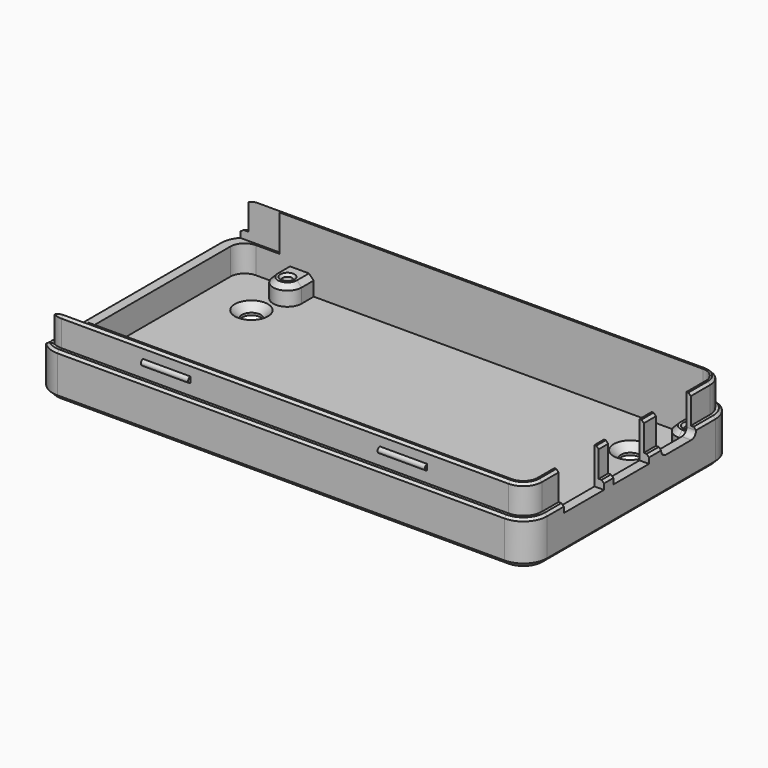
from build123d import *

# Parameters (mm, degrees)
PAD017_DEPTH                  = 15.3
PAD017_MIRRORED033_2_DEPTH    = 15.3
PAD023_DEPTH                  = 2
PAD023_MIRRORED043_2_DEPTH    = 2
SKETCH061_R                   = 1
PAD019_DEPTH                  = 4
POCKET060_DEPTH               = 6
POCKET060_MIRRORED038_2_DEPTH = 6
PAD020_DEPTH                  = 30
POCKET068_DEPTH               = 20
CHAMFER034_SIZE               = 1
CHAMFER026_SIZE               = 1
CHAMFER029_SIZE               = 0.5
CHAMFER028_SIZE               = 0.5
CHAMFER033_SIZE               = 0.5
POCKET063_DEPTH               = 5
SKETCH082_W                   = 9.4
SKETCH082_H                   = 50
POCKET066_DEPTH               = 5
POCKET053_DEPTH               = 10
POCKET065_DEPTH               = 10
POCKET052_DEPTH               = 10
POCKET056_DEPTH               = 10
POCKET057_DEPTH               = 10
POCKET071_DEPTH               = 10
SKETCH072_R                   = 2
POCKET072_DEPTH               = 5
CHAMFER031_SIZE               = 1.5


with BuildPart() as part:
    # Sketch076 → Pad017 (new body)
    with BuildSketch(Plane.XY):
        with BuildLine():
            ThreePointArc((-47.2, 25.2), (-49.32132, 24.32132), (-50.2, 22.2))
            Line((-50.2, 22.2), (-50.2, 0))
            Line((-52.2, 0), (-50.2, 0))
            Line((-52.2, 22.2), (-52.2, 0))
            ThreePointArc((-47.2, 27.2), (-50.735534, 25.735534), (-52.2, 22.2))
            Line((-47.2, 27.2), (0, 27.2))
            Line((0, 27.2), (0, 25.2))
            Line((-47.2, 25.2), (0, 25.2))
        make_face()
    pad017 = extrude(amount=PAD017_DEPTH)

    # Sketch076 Mirrored033 2 → Pad017 Mirrored033 2 (add)
    with BuildSketch(Plane(origin=(0, 0, 0), x_dir=(-1, 0, 0), z_dir=(0, 0, -1))):
        with BuildLine():
            ThreePointArc((-47.2, 25.2), (-49.32132, 24.32132), (-50.2, 22.2))
            Line((-50.2, 22.2), (-50.2, 0))
            Line((-52.2, 0), (-50.2, 0))
            Line((-52.2, 22.2), (-52.2, 0))
            ThreePointArc((-47.2, 27.2), (-50.735534, 25.735534), (-52.2, 22.2))
            Line((-47.2, 27.2), (0, 27.2))
            Line((0, 27.2), (0, 25.2))
            Line((-47.2, 25.2), (0, 25.2))
        make_face()
    pad017_mirrored033_2 = extrude(amount=-PAD017_MIRRORED033_2_DEPTH)

    # Mirrored031: Pad017, Pad017 Mirrored033 2 across Sketch076 H_Axis
    add(pad017.mirror(Plane.ZX))
    add(pad017_mirrored033_2.mirror(Plane.ZX))

    # Sketch074 → Pad023 (join)
    with BuildSketch(Plane.XY):
        with BuildLine():
            ThreePointArc((-47.2, 25.2), (-49.32132, 24.32132), (-50.2, 22.2))
            Line((-50.2, 22.2), (-50.2, 0))
            Line((-50.2, 0), (0, 0))
            Line((0, 0), (0, 25.2))
            Line((-47.2, 25.2), (0, 25.2))
        make_face()
    pad023 = extrude(amount=PAD023_DEPTH)

    # Sketch074 Mirrored043 2 → Pad023 Mirrored043 2 (add)
    with BuildSketch(Plane(origin=(0, 0, 0), x_dir=(-1, 0, 0), z_dir=(0, 0, -1))):
        with BuildLine():
            ThreePointArc((-47.2, 25.2), (-49.32132, 24.32132), (-50.2, 22.2))
            Line((-50.2, 22.2), (-50.2, 0))
            Line((-50.2, 0), (0, 0))
            Line((0, 0), (0, 25.2))
            Line((-47.2, 25.2), (0, 25.2))
        make_face()
    pad023_mirrored043_2 = extrude(amount=-PAD023_MIRRORED043_2_DEPTH)

    # Mirrored037: Pad023, Pad023 Mirrored043 2 across Sketch074 H_Axis
    add(pad023.mirror(Plane.ZX))
    add(pad023_mirrored043_2.mirror(Plane.ZX))

    # Sketch061 (on Face19 of MultiTransform012) → Pad019 (join)
    with BuildSketch(Plane.XY.offset(2)):
        with BuildLine():
            ThreePointArc((50.2, 22.2), (49.32132, 24.32132), (47.2, 25.2))
            Line((47.2, 25.2), (44, 25.2))
            Line((44, 22), (44, 25.2))
            ThreePointArc((44, 22), (44.87868, 19.87868), (47, 19))
            Line((47, 19), (50.2, 19))
            Line((50.2, 22.2), (50.2, 19))
        make_face()
        with Locations((47, 22)):
            Circle(SKETCH061_R, mode=Mode.SUBTRACT)
        with BuildLine():
            ThreePointArc((-41, 22), (-38, 19), (-35, 22))
            Line((-35, 22), (-35, 25.2))
            Line((-41, 25.2), (-35, 25.2))
            Line((-41, 22), (-41, 25.2))
        make_face()
        with Locations((-38, 22)):
            Circle(SKETCH061_R, mode=Mode.SUBTRACT)
    pad019 = extrude(amount=PAD019_DEPTH)

    # Mirrored035: Pad019 across Sketch061 H_Axis
    add(pad019.mirror(Plane(origin=(0, 0, 2), x_dir=(0, 0, 1), z_dir=(0, 1, 0))))

    # Sketch068 (on Face5 of Mirrored035) → Pocket060 (cut)
    with BuildSketch(Plane.XY.offset(15.3)):
        with BuildLine():
            ThreePointArc((-47.2, 27.2), (-50.735534, 25.735534), (-52.2, 22.2))
            Line((-52.2, 0), (-52.2, 22.2))
            Line((-51.1, 0), (-52.2, 0))
            Line((-51.1, 22.2), (-51.1, 0))
            ThreePointArc((-47.2, 26.1), (-49.957716, 24.957716), (-51.1, 22.2))
            Line((0, 26.1), (-47.2, 26.1))
            Line((0, 27.2), (0, 26.1))
            Line((-47.2, 27.2), (0, 27.2))
        make_face()
    pocket060 = extrude(amount=-POCKET060_DEPTH, mode=Mode.SUBTRACT)

    # Sketch068 Mirrored038 2 → Pocket060 Mirrored038 2 (cut)
    with BuildSketch(Plane(origin=(0, 0, 15.3), x_dir=(-1, 0, 0), z_dir=(0, 0, -1))):
        with BuildLine():
            ThreePointArc((-47.2, 27.2), (-50.735534, 25.735534), (-52.2, 22.2))
            Line((-52.2, 0), (-52.2, 22.2))
            Line((-51.1, 0), (-52.2, 0))
            Line((-51.1, 22.2), (-51.1, 0))
            ThreePointArc((-47.2, 26.1), (-49.957716, 24.957716), (-51.1, 22.2))
            Line((0, 26.1), (-47.2, 26.1))
            Line((0, 27.2), (0, 26.1))
            Line((-47.2, 27.2), (0, 27.2))
        make_face()
    pocket060_mirrored038_2 = extrude(amount=POCKET060_MIRRORED038_2_DEPTH, mode=Mode.SUBTRACT)

    # Mirrored042: Pocket060, Pocket060 Mirrored038 2 across Sketch068 H_Axis
    add(pocket060.mirror(Plane(origin=(0, 0, 15.3), x_dir=(0, 0, 1), z_dir=(0, 1, 0))), mode=Mode.SUBTRACT)
    add(pocket060_mirrored038_2.mirror(Plane(origin=(0, 0, 15.3), x_dir=(0, 0, 1), z_dir=(0, 1, 0))), mode=Mode.SUBTRACT)

    # Sketch060 → Pad020 (join, symmetric)
    with BuildSketch(Plane.YZ):
        with BuildLine():
            ThreePointArc((-26.1, 12.9), (-26.7, 12.3), (-26.1, 11.7))
            Line((-26.1, 12.9), (-26.1, 11.7))
        make_face()
    pad020 = extrude(amount=PAD020_DEPTH, both=True)

    # Sketch060 → Pocket068 (cut, symmetric)
    with BuildSketch(Plane.YZ):
        with BuildLine():
            ThreePointArc((-26.1, 12.9), (-26.7, 12.3), (-26.1, 11.7))
            Line((-26.1, 12.9), (-26.1, 11.7))
        make_face()
    pocket068 = extrude(amount=POCKET068_DEPTH, both=True, mode=Mode.SUBTRACT)

    # Mirrored034: Pad020, Pocket068 across Sketch060 V_Axis
    add(pad020.mirror(Plane(origin=(0, 0, 0), x_dir=(1, 0, 0), z_dir=(0, 1, 0))))
    add(pocket068.mirror(Plane(origin=(0, 0, 0), x_dir=(1, 0, 0), z_dir=(0, 1, 0))), mode=Mode.SUBTRACT)

    # Chamfer034
    chamfer034_edges = [part.edges().sort_by_distance(p)[0] for p in [
        (0, -27.2, 0),
    ]]
    chamfer(chamfer034_edges, length=CHAMFER034_SIZE)

    # Chamfer026
    chamfer026_edges = [part.edges().sort_by_distance(p)[0] for p in [
        (-35, 23.6, 6),
        (-35, -23.6, 6),
        (44, -23.6, 6),
        (44, 23.6, 6),
    ]]
    chamfer(chamfer026_edges, length=CHAMFER026_SIZE)

    # Chamfer029
    chamfer029_edges = [part.edges().sort_by_distance(p)[0] for p in [
        (-39, 22, 6),
        (46, 22, 6),
        (-39, -22, 6),
        (46, -22, 6),
    ]]
    chamfer(chamfer029_edges, length=CHAMFER029_SIZE)

    # Chamfer028
    chamfer028_edges = [part.edges().sort_by_distance(p)[0] for p in [
        (0, -26.1, 15.3),
    ]]
    chamfer(chamfer028_edges, length=CHAMFER028_SIZE)

    # Chamfer033
    chamfer033_edges = [part.edges().sort_by_distance(p)[0] for p in [
        (-23.6, -27.2, 9.3),
    ]]
    chamfer(chamfer033_edges, length=CHAMFER033_SIZE)

    # Sketch069 (on DatumPlane) → Pocket063 (cut)
    with BuildSketch(Plane.YZ.offset(52.2)):
        with BuildLine():
            ThreePointArc((7.9, 8.75), (8.266117, 7.866117), (9.15, 7.5))
            Line((9.15, 7.5), (15.85, 7.5))
            ThreePointArc((15.85, 7.5), (16.733883, 7.866117), (17.1, 8.75))
            Line((17.1, 8.75), (17.1, 58.75))
            Line((7.9, 58.75), (17.1, 58.75))
            Line((7.9, 8.75), (7.9, 58.75))
        make_face()
    extrude(amount=-POCKET063_DEPTH, mode=Mode.SUBTRACT)

    # Sketch082 (on DatumPlane) → Pocket066 (cut)
    with BuildSketch(Plane.YZ.offset(52.2)):
        with Locations((0, 32.6)):
            Rectangle(SKETCH082_W, SKETCH082_H)
    extrude(amount=-POCKET066_DEPTH, mode=Mode.SUBTRACT)

    # Sketch062 (on DatumPlane) → Pocket053 (cut)
    with BuildSketch(Plane.YZ.offset(52.2)):
        Polygon((-17.8, 7.6), (-7.2, 7.6), (-7.2, 15.6), (-12.1, 15.6), (-12.1, 18.1), (-14.1, 18.1), (-14.1, 15.6), (-17.8, 15.6), align=None)
    extrude(amount=-POCKET053_DEPTH, mode=Mode.SUBTRACT)

    # Sketch083 (on DatumPlane) → Pocket065 (cut)
    with BuildSketch(Plane(origin=(-52.2, 0, 0), x_dir=(0, -1, 0), z_dir=(-1, 0, 0))):
        Polygon((-25.62, 7.6), (-15.02, 7.6), (-15.02, 15.6), (-19.92, 15.6), (-19.92, 18.1), (-21.92, 18.1), (-21.92, 15.6), (-25.62, 15.6), align=None)
    extrude(amount=-POCKET065_DEPTH, mode=Mode.SUBTRACT)

    # Sketch063 (on DatumPlane) → Pocket052 (cut)
    with BuildSketch(Plane(origin=(-52.2, 0, 0), x_dir=(0, -1, 0), z_dir=(-1, 0, 0))):
        Polygon((-15.46, 7.6), (-4.86, 7.6), (-4.86, 15.6), (-9.76, 15.6), (-9.76, 18.1), (-11.76, 18.1), (-11.76, 15.6), (-15.46, 15.6), align=None)
    extrude(amount=-POCKET052_DEPTH, mode=Mode.SUBTRACT)

    # Sketch059 (on DatumPlane) → Pocket056 (cut)
    with BuildSketch(Plane(origin=(-52.2, 0, 0), x_dir=(0, -1, 0), z_dir=(-1, 0, 0))):
        Polygon((-5.3, 7.6), (5.3, 7.6), (5.3, 15.6), (0, 15.6), (0, 18.1), (-2, 18.1), (-2, 15.6), (-5.3, 15.6), align=None)
    extrude(amount=-POCKET056_DEPTH, mode=Mode.SUBTRACT)

    # Sketch071 (on DatumPlane) → Pocket057 (cut)
    with BuildSketch(Plane(origin=(-52.2, 0, 0), x_dir=(0, -1, 0), z_dir=(-1, 0, 0))):
        Polygon((4.86, 7.6), (15.46, 7.6), (15.46, 15.6), (10.56, 15.6), (10.56, 18.1), (8.56, 18.1), (8.56, 15.6), (4.86, 15.6), align=None)
    extrude(amount=-POCKET057_DEPTH, mode=Mode.SUBTRACT)

    # Sketch070 (on DatumPlane) → Pocket071 (cut)
    with BuildSketch(Plane(origin=(-52.2, 0, 0), x_dir=(0, -1, 0), z_dir=(-1, 0, 0))):
        Polygon((15.02, 7.6), (25.62, 7.6), (25.62, 15.6), (20.72, 15.6), (20.72, 18.1), (18.72, 18.1), (18.72, 15.6), (15.02, 15.6), align=None)
    extrude(amount=-POCKET071_DEPTH, mode=Mode.SUBTRACT)

    # Sketch072 (on DatumPlane) → Pocket072 (cut)
    with BuildSketch(Plane.XY.offset(2)):
        with Locations((-40, 15)):
            Circle(SKETCH072_R)
        with Locations((40, 15)):
            Circle(SKETCH072_R)
        with Locations((40, -15)):
            Circle(SKETCH072_R)
        with Locations((-40, -15)):
            Circle(SKETCH072_R)
    extrude(amount=-POCKET072_DEPTH, mode=Mode.SUBTRACT)

    # Chamfer031
    chamfer031_edges = [part.edges().sort_by_distance(p)[0] for p in [
        (-42, 15, 2),
        (38, 15, 2),
        (38, -15, 2),
        (-42, -15, 2),
    ]]
    chamfer(chamfer031_edges, length=CHAMFER031_SIZE)


solid = part.part
